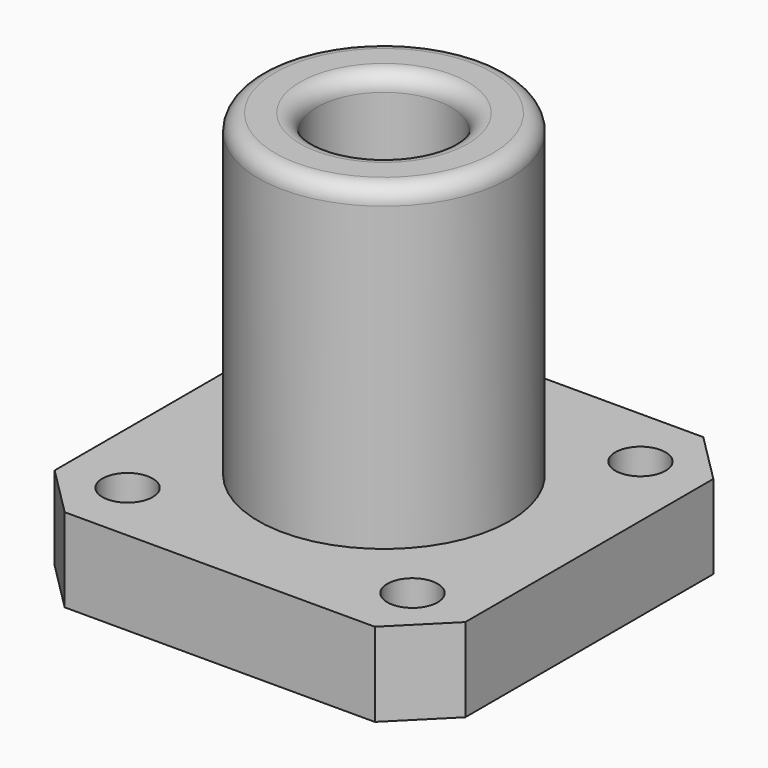
from build123d import *

# Parameters (mm, degrees)
SKETCH_W        = 24.5
SKETCH_H        = 24.5
SKETCH_R        = 1.5
PAD_DEPTH       = 5
SKETCH001_R     = 7.5
PAD001_DEPTH    = 19
SKETCH002_R     = 4
POCKET_DEPTH    = 24.001
CHAMFER_SIZE    = 3
CHAMFER001_SIZE = 3
FILLET_R        = 1
FILLET001_R     = 1
FILLET002_R     = 1


with BuildPart() as part:
    # Sketch → Pad (new body)
    with BuildSketch(Plane.XY):
        Rectangle(SKETCH_W, SKETCH_H)
        with Locations((-8.5, 8.5)):
            Circle(SKETCH_R, mode=Mode.SUBTRACT)
        with Locations((8.5, 8.5)):
            Circle(SKETCH_R, mode=Mode.SUBTRACT)
        with Locations((8.5, -8.5)):
            Circle(SKETCH_R, mode=Mode.SUBTRACT)
        with Locations((-8.5, -8.5)):
            Circle(SKETCH_R, mode=Mode.SUBTRACT)
    extrude(amount=PAD_DEPTH)

    # Sketch001 (on Face10 of Pad) → Pad001 (join)
    with BuildSketch(Plane.XY.offset(5)):
        Circle(SKETCH001_R)
    extrude(amount=PAD001_DEPTH)

    # Sketch002 (on Face12 of Pad001) → Pocket (cut, through all)
    with BuildSketch(Plane.XY.offset(24)):
        Circle(SKETCH002_R)
    extrude(amount=-POCKET_DEPTH, mode=Mode.SUBTRACT)

    # Chamfer
    chamfer_edges = [part.edges().sort_by_distance(p)[0] for p in [
        (12.25, -12.25, 2.5),
        (12.25, 12.25, 2.5),
        (-12.25, 12.25, 2.5),
    ]]
    chamfer(chamfer_edges, length=CHAMFER_SIZE)

    # Chamfer001
    chamfer001_edges = [part.edges().sort_by_distance(p)[0] for p in [
        (-12.25, -12.25, 2.5),
    ]]
    chamfer(chamfer001_edges, length=CHAMFER001_SIZE)

    # Fillet
    fillet_edges = [part.edges().sort_by_distance(p)[0] for p in [
        (-7.5, 0, 24),
    ]]
    fillet(fillet_edges, radius=FILLET_R)

    # Fillet001
    fillet001_edges = [part.edges().sort_by_distance(p)[0] for p in [
        (-4, 0, 24),
    ]]
    fillet(fillet001_edges, radius=FILLET001_R)

    # Fillet002
    fillet002_edges = [part.edges().sort_by_distance(p)[0] for p in [
        (-4, 0, 0),
    ]]
    fillet(fillet002_edges, radius=FILLET002_R)


solid = part.part
